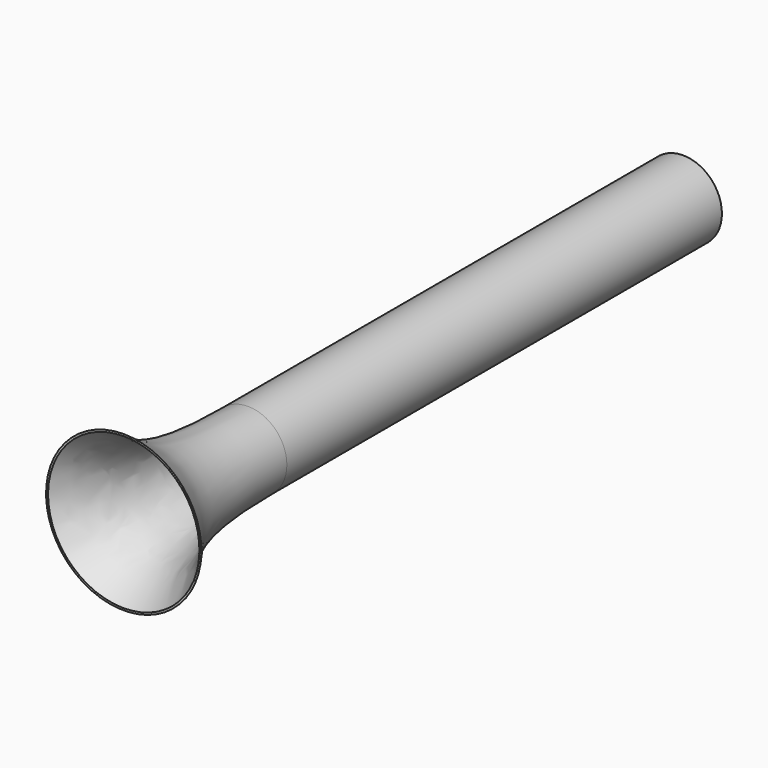
from build123d import *

# Parameters (mm, degrees)
F2_T     = -0.1
F3_DEPTH = 0.1
F4_R     = 2.5
F4_R_2   = 2.400072574
F5_DEPTH = 35


with BuildPart() as f1:
    # F0 (on Right) → F1 (revolve)
    with BuildSketch(Plane.YZ):
        with BuildLine():
            Line((0, 0), (0, 2.5))
            add(Edge.make_bspline(
                [(0, 2.5), (-2.5, 2.5), (-6.0578610012, 2.7513427523), (-8.5, 3.8), (-10, 5)],
                knots=[0, 0, 0, 0, 0.5371008772, 1, 1, 1, 1], degree=3))
            Line((-10, 5), (-10, 0))
            Line((-10, 0), (0, 0))
        make_face()
    revolve(axis=Axis((0, -5, 0), (0, 1, 0)))

    # F2
    f2_openings = [f1.faces().sort_by_distance(p)[0] for p in [
        (0, -10, 0),
    ]]
    offset(amount=F2_T, openings=f2_openings)

    # F3 (cut, through all): a face of the model
    f3_faces = [f1.faces().sort_by_distance(p)[0] for p in [
        (4.5393e-06, -0.1, -5.4854e-06),
    ]]
    extrude(f3_faces, amount=-F3_DEPTH, mode=Mode.SUBTRACT)

    # F4 (on Front) → F5 (join)
    with BuildSketch(Plane.XZ):
        Circle(F4_R)
        Circle(F4_R_2, mode=Mode.SUBTRACT)
    extrude(amount=-F5_DEPTH)


solid = f1.part
